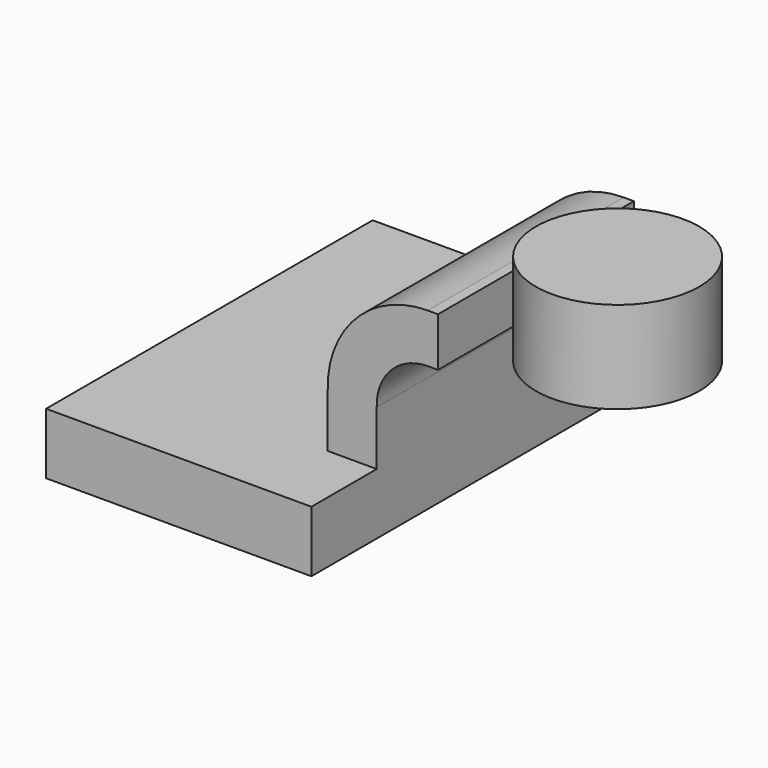
from build123d import *

# Parameters (mm, degrees)
F1_DEPTH = 63.5
F2_DEPTH = 38.1
F0_W     = 25.4
F0_H     = 28.575


with BuildPart() as f1:
    # F0 (on Front) → F1 (new body, symmetric)
    with BuildSketch(Plane.XZ):
        Polygon((41.275, -9.525), (41.275, 9.525), (26.035, 9.525), (-41.275, 9.525), (-41.275, -9.525), align=None)
    extrude(amount=F1_DEPTH, both=True)

    # F0 (on Front) → F2 (join, symmetric)
    with BuildSketch(Plane.XZ):
        with BuildLine():
            Line((26.035, 9.525), (41.275, 9.525))
            Line((41.275, 9.525), (41.275, 26.432585))
            ThreePointArc((41.275, 26.432585), (45.715609, 38.023011), (57.139849, 42.8752))
            Line((57.139849, 42.8752), (60.325, 42.8752))
            Line((60.325, 42.8752), (60.325, 58.1152))
            Line((60.325, 58.1152), (57.139849, 58.1152))
            ThreePointArc((57.139849, 58.1152), (34.859016, 48.719033), (26.035, 26.205477))
            Line((26.035, 26.205477), (26.035, 9.525))
        make_face()
    extrude(amount=F2_DEPTH, both=True)

    # F0 (on Front) → F3 (revolve)
    with BuildSketch(Plane.XZ):
        with Locations((98.425, 52.3875)):
            Rectangle(F0_W, F0_H)
    revolve(axis=Axis((85.725, 0, 52.3875), (0, 0, 1)))


solid = f1.part
